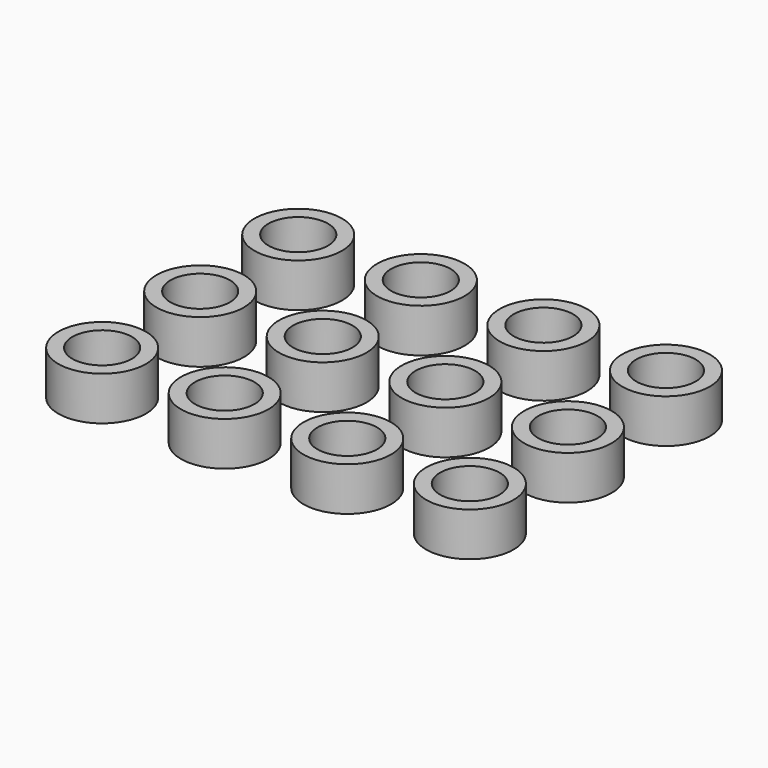
from build123d import *

# Parameters (mm, degrees)
F0_R     = 3.175
F0_R_2   = 2.159
F1_DEPTH = 3.175


with BuildPart() as f1:
    # F0 (on Top) → F1 (new body)
    with BuildSketch(Plane.XY):
        with Locations((25.487235, -19.598674)):
            Circle(F0_R)
        with Locations((25.487235, -19.598674)):
            Circle(F0_R_2, mode=Mode.SUBTRACT)
        with Locations((16.597235, -19.598674)):
            Circle(F0_R)
        with Locations((16.597235, -19.598674)):
            Circle(F0_R_2, mode=Mode.SUBTRACT)
        with Locations((25.487235, -10.708674)):
            Circle(F0_R)
        with Locations((25.487235, -10.708674)):
            Circle(F0_R_2, mode=Mode.SUBTRACT)
        with Locations((16.597235, -10.708674)):
            Circle(F0_R)
        with Locations((16.597235, -10.708674)):
            Circle(F0_R_2, mode=Mode.SUBTRACT)
        with Locations((7.707235, -10.708674)):
            Circle(F0_R)
        with Locations((7.707235, -10.708674)):
            Circle(F0_R_2, mode=Mode.SUBTRACT)
        with Locations((7.707235, -19.598674)):
            Circle(F0_R)
        with Locations((7.707235, -19.598674)):
            Circle(F0_R_2, mode=Mode.SUBTRACT)
        with Locations((7.707235, -28.488674)):
            Circle(F0_R)
        with Locations((7.707235, -28.488674)):
            Circle(F0_R_2, mode=Mode.SUBTRACT)
        with Locations((16.597235, -28.488674)):
            Circle(F0_R)
        with Locations((16.597235, -28.488674)):
            Circle(F0_R_2, mode=Mode.SUBTRACT)
        with Locations((25.487235, -28.488674)):
            Circle(F0_R)
        with Locations((25.487235, -28.488674)):
            Circle(F0_R_2, mode=Mode.SUBTRACT)
        with Locations((34.377235, -10.708674)):
            Circle(F0_R)
        with Locations((34.377235, -10.708674)):
            Circle(F0_R_2, mode=Mode.SUBTRACT)
        with Locations((34.377235, -19.598674)):
            Circle(F0_R)
        with Locations((34.377235, -19.598674)):
            Circle(F0_R_2, mode=Mode.SUBTRACT)
        with Locations((34.377235, -28.488674)):
            Circle(F0_R)
        with Locations((34.377235, -28.488674)):
            Circle(F0_R_2, mode=Mode.SUBTRACT)
    extrude(amount=F1_DEPTH)


solid = f1.part
